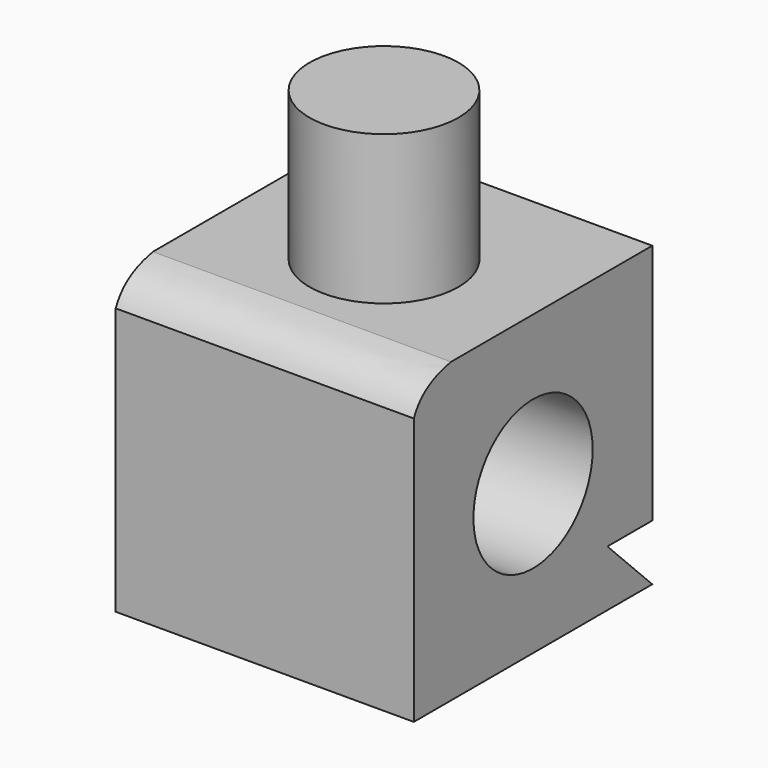
from build123d import *

# Parameters (mm, degrees)
F0_W     = 50.8
F0_H     = 50.8
F1_DEPTH = 50.8
F2_R     = 12.7
F3_DEPTH = 25.4
F4_R     = 12.7
F5_DEPTH = 99.06
F7_DEPTH = 60.452
F9_DEPTH = 52.7812


with BuildPart() as f1:
    # F0 (on Top) → F1 (new body)
    with BuildSketch(Plane.XY):
        Rectangle(F0_W, F0_H)
    extrude(amount=F1_DEPTH)

    # F2 (on face) → F3 (join)
    with BuildSketch(Plane.XY.offset(50.8)):
        Circle(F2_R)
    extrude(amount=F3_DEPTH)

    # F4 (on face) → F5 (cut)
    with BuildSketch(Plane.YZ.offset(25.4)):
        with Locations((0, 25.4)):
            Circle(F4_R)
    extrude(amount=-F5_DEPTH, mode=Mode.SUBTRACT)

    # F6 (on face) → F7 (cut)
    with BuildSketch(Plane.YZ.offset(25.4)):
        Polygon((25.4, 9.5578852713), (15.8421147287, 9.5578852713), (25.4, 0), align=None)
    extrude(amount=-F7_DEPTH, mode=Mode.SUBTRACT)

    # F8 (on face) → F9 (cut)
    with BuildSketch(Plane.YZ.offset(25.4)):
        with BuildLine():
            Line((-25.4, 50.8), (-25.4, 45.5264649071))
            add(Edge.make_bspline(
                [(-25.4, 45.5264649071), (-25.015397773, 46.373642787), (-23.3269839792, 48.9886268104), (-20.1866213816, 50.2950406875), (-17.4815941819, 50.8)],
                knots=[0.4167679889, 0.4167679889, 0.4167679889, 0.4167679889, 0.4909297507, 0.6737476918, 0.6737476918, 0.6737476918, 0.6737476918], degree=3))
            Line((-17.4815941819, 50.8), (-25.4, 50.8))
        make_face()
    extrude(amount=-F9_DEPTH, mode=Mode.SUBTRACT)


solid = f1.part
